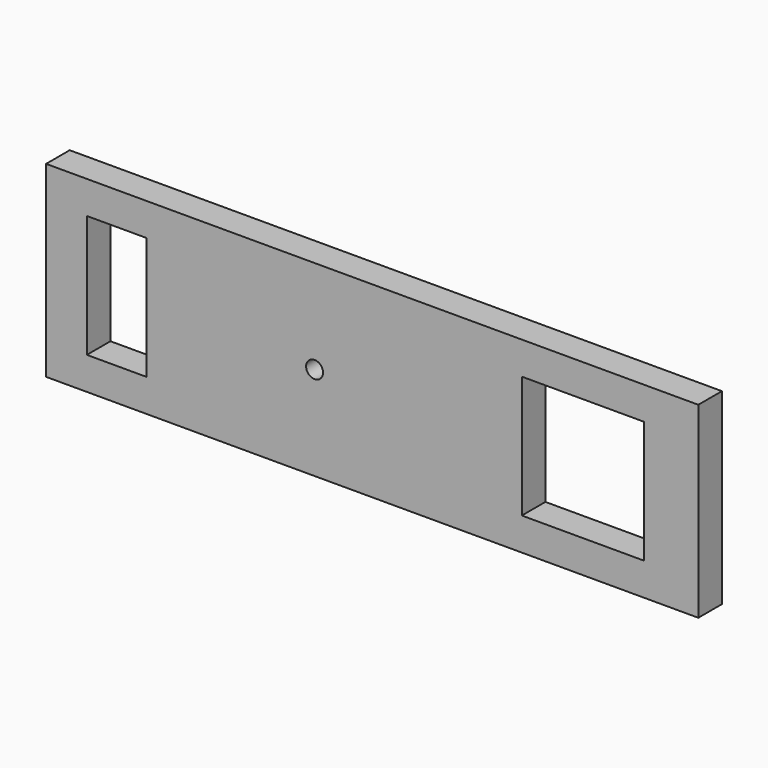
from build123d import *

# Parameters (mm, degrees)
F0_W     = 70.1778
F0_H     = 20.1778
F0_W_2   = 6.4122
F0_H_2   = 13.1572
F0_R     = 0.9111
F0_W_3   = 13.1572
F1_DEPTH = 3.175


with BuildPart() as f1:
    # F0 (on Front) → F1 (new body)
    with BuildSketch(Plane.XZ):
        Rectangle(F0_W, F0_H)
        with Locations((-27.495, 0)):
            Rectangle(F0_W_2, F0_H_2, mode=Mode.SUBTRACT)
        with Locations((-6.2, 0)):
            Circle(F0_R, mode=Mode.SUBTRACT)
        with Locations((22.6775, 0)):
            Rectangle(F0_W_3, F0_H_2, mode=Mode.SUBTRACT)
    extrude(amount=F1_DEPTH)


solid = f1.part
